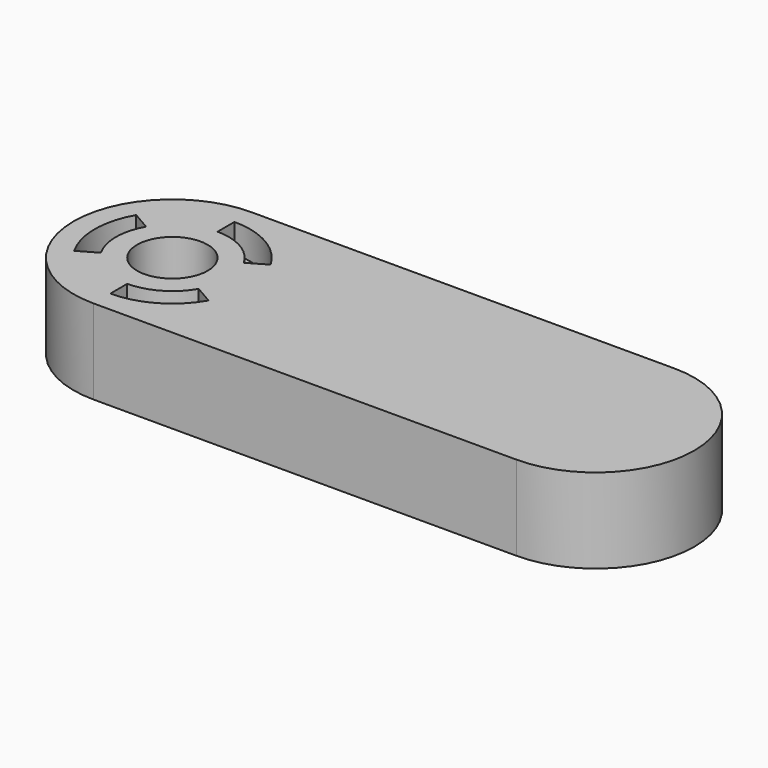
from build123d import *

# Parameters (mm, degrees)
PAD008_DEPTH          = 6
SKETCH017_R           = 2.5
POCKET008_DEPTH       = 6.001
POCKET009_DEPTH       = 2
POLARPATTERN001_COUNT = 3


with BuildPart() as part:
    # Sketch016 → Pad008 (new body)
    with BuildSketch(Plane.XY):
        with BuildLine():
            ThreePointArc((0, 7), (-7, 0), (0, -7))
            Line((0, -7), (30, -7))
            ThreePointArc((30, -7), (37, 0), (30, 7))
            Line((0, 7), (30, 7))
        make_face()
    extrude(amount=PAD008_DEPTH)

    # Sketch017 (on Face6 of Pad008) → Pocket008 (cut, through all)
    with BuildSketch(Plane.XY.offset(6)):
        Circle(SKETCH017_R)
    extrude(amount=-POCKET008_DEPTH, mode=Mode.SUBTRACT)

    # Sketch019 (on Face5 of Pocket008) → Pocket009 (cut)
    with BuildSketch(Plane.XY.offset(6)):
        with BuildLine():
            ThreePointArc((-3.464102, 2), (-4, 0), (-3.464102, -2))
            Line((-4.76314, -2.75), (-3.464102, -2))
            ThreePointArc((-4.76314, 2.75), (-5.5, 0), (-4.76314, -2.75))
            Line((-4.76314, 2.75), (-3.464102, 2))
        make_face()
    pocket009 = extrude(amount=-POCKET009_DEPTH, mode=Mode.SUBTRACT)

    # PolarPattern001: Pocket009 ×3 about axis
    polarpattern001_axis = Axis((0, 0, 6), (0, 0, 1))
    for i in range(1, POLARPATTERN001_COUNT):
        add(pocket009.rotate(polarpattern001_axis, i * 360 / POLARPATTERN001_COUNT), mode=Mode.SUBTRACT)


with BuildPart() as part_1:
    # Body002 placement: moved
    add(part.part.moved(Location((70, 60, 0))))


solid = part_1.part
